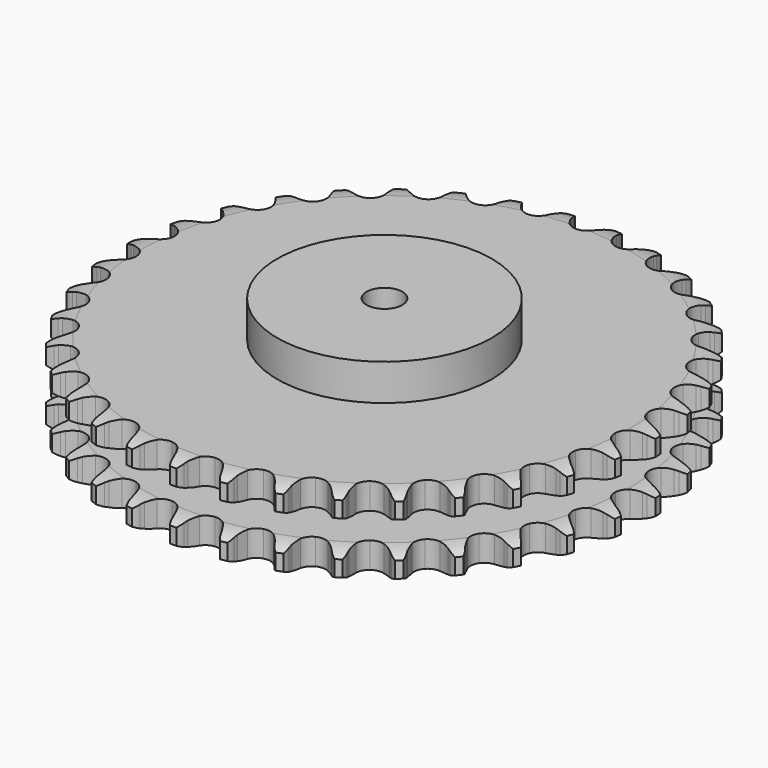
from build123d import *

# Parameters (mm, degrees)
PAD_DEPTH         = 54.6
SKETCH001_R       = 75
PAD001_DEPTH      = 80
SKETCH002_R       = 12.5
POCKET_DEPTH      = 0.001
POCKET_DEPTH_BACK = 80.001


with BuildPart() as part:
    # Sprocket → Pad (new body)
    with BuildSketch(Plane.XY):
        with BuildLine():
            ThreePointArc((-16.809348, 186.76715), (-13.963432, 183.752889), (-12.017606, 180.092455))
            Line((-12.017606, 180.092455), (-11.08828, 177.582083))
            ThreePointArc((-11.08828, 177.582083), (-9.619496, 174.346311), (-7.704213, 171.353111))
            ThreePointArc((-7.704213, 171.353111), (-4.309716, 168.508394), (0, 167.487918))
            ThreePointArc((0, 167.487918), (4.309716, 168.508394), (7.704213, 171.353111))
            ThreePointArc((7.704213, 171.353111), (9.619496, 174.346311), (11.08828, 177.582083))
            Line((11.08828, 177.582083), (12.017606, 180.092455))
            ThreePointArc((12.017606, 180.092455), (13.963432, 183.752889), (16.809348, 186.76715))
            ThreePointArc((16.809348, 186.76715), (19.071312, 183.293171), (20.332271, 179.344122))
            Line((20.332271, 179.344122), (20.798419, 176.708155))
            ThreePointArc((20.798419, 176.708155), (21.66583, 173.262121), (23.015876, 169.975037))
            ThreePointArc((23.015876, 169.975037), (25.847878, 166.569924), (29.906123, 164.796319))
            ThreePointArc((29.906123, 164.796319), (34.328793, 165.030865), (38.176683, 167.223756))
            Line((38.176683, 167.223756), (42.618592, 172.748377))
            ThreePointArc((42.618592, 172.748377), (43.268864, 173.918784), (43.981228, 175.052469))
            ThreePointArc((43.981228, 175.052469), (46.549379, 178.306637), (49.887777, 180.7643))
            ThreePointArc((49.887777, 180.7643), (51.493087, 176.942261), (52.028653, 172.831521))
            Line((52.028653, 172.831521), (52.016639, 170.154681))
            ThreePointArc((52.016639, 170.154681), (52.254797, 166.609144), (52.996217, 163.133824))
            ThreePointArc((52.996217, 163.133824), (55.174701, 159.27776), (58.851038, 156.80803))
            ThreePointArc((58.851038, 156.80803), (63.244514, 156.249109), (67.422122, 157.719692))
            Line((67.422122, 157.719692), (72.779108, 162.362397))
            ThreePointArc((72.779108, 162.362397), (73.627913, 163.397884), (74.531257, 164.386152))
            ThreePointArc((74.531257, 164.386152), (77.639191, 167.129464), (81.362772, 168.951537))
            ThreePointArc((81.362772, 168.951537), (82.259833, 164.90428), (82.05279, 160.763973))
            Line((82.05279, 160.763973), (81.563002, 158.132296))
            ThreePointArc((81.563002, 158.132296), (81.164252, 154.601213), (81.273215, 151.049357))
            ThreePointArc((81.273215, 151.049357), (82.728163, 146.866278), (85.904432, 143.779801))
            ThreePointArc((85.904432, 143.779801), (90.127504, 142.445377), (94.500559, 143.146386))
            Line((94.500559, 143.146386), (100.600443, 146.757955))
            ThreePointArc((100.600443, 146.757955), (101.620501, 147.625241), (102.68579, 148.436329))
            ThreePointArc((102.68579, 148.436329), (106.233615, 150.580612), (110.222701, 151.708532))
            ThreePointArc((110.222701, 151.708532), (110.38268, 147.56614), (109.439684, 143.529338))
            Line((109.439684, 143.529338), (108.487862, 141.027409))
            ThreePointArc((108.487862, 141.027409), (107.465022, 137.624271), (106.938025, 134.110039))
            ThreePointArc((106.938025, 134.110039), (107.622674, 129.734393), (110.196788, 126.130372))
            ThreePointArc((110.196788, 126.130372), (114.113722, 124.063334), (118.541671, 123.972239))
            Line((118.541671, 123.972239), (125.188397, 126.436591))
            ThreePointArc((125.188397, 126.436591), (126.346923, 127.107801), (127.539917, 127.715641))
            ThreePointArc((127.539917, 127.715641), (131.413604, 129.191975), (135.539981, 129.589491))
            ThreePointArc((135.539981, 129.589491), (134.957736, 125.485103), (133.309096, 121.681552))
            Line((133.309096, 121.681552), (131.925834, 119.389784))
            ThreePointArc((131.925834, 119.389784), (130.311777, 116.223971), (129.165759, 112.860314))
            ThreePointArc((129.165759, 112.860314), (129.058104, 108.432737), (130.947328, 104.427009))
            ThreePointArc((130.947328, 104.427009), (134.432232, 101.693794), (138.772755, 100.813521))
            Line((138.772755, 100.813521), (145.752693, 102.051452))
            ThreePointArc((145.752693, 102.051452), (147.01245, 102.505013), (148.294806, 102.890066))
            ThreePointArc((148.294806, 102.890066), (152.369851, 103.651002), (156.500895, 103.305336))
            ThreePointArc((156.500895, 103.305336), (155.19514, 99.370871), (152.893844, 95.922822))
            Line((152.893844, 95.922822), (151.123601, 93.914874))
            ThreePointArc((151.123601, 93.914874), (148.970205, 91.088138), (147.241999, 87.983165))
            ThreePointArc((147.241999, 87.983165), (146.3455, 83.645964), (147.489113, 79.367276))
            ThreePointArc((147.489113, 79.367276), (150.429978, 76.055731), (154.543569, 74.414574))
            Line((154.543569, 74.414574), (161.632378, 74.386295))
            ThreePointArc((161.632378, 74.386295), (162.952876, 74.607628), (164.283379, 74.75752))
            ThreePointArc((164.283379, 74.75752), (168.428806, 74.7786), (172.431741, 73.700863))
            ThreePointArc((172.431741, 73.700863), (170.444445, 70.062778), (167.564459, 67.081052))
            Line((167.564459, 67.081052), (165.464131, 65.421463))
            ThreePointArc((165.464131, 65.421463), (162.840607, 63.024657), (160.58576, 60.278165))
            ThreePointArc((160.58576, 60.278165), (158.929231, 56.170741), (159.290476, 51.756613))
            ThreePointArc((159.290476, 51.756613), (161.592782, 47.973174), (165.347226, 45.623882))
            Line((165.347226, 45.623882), (172.317065, 44.330301))
            ThreePointArc((172.317065, 44.330301), (173.655863, 44.312294), (174.991748, 44.222206))
            ThreePointArc((174.991748, 44.222206), (179.07432, 43.502753), (182.820489, 41.727584))
            ThreePointArc((182.820489, 41.727584), (180.215525, 38.50281), (176.849413, 36.083243))
            Line((176.849413, 36.083243), (174.486507, 34.825351))
            ThreePointArc((174.486507, 34.825351), (171.477179, 32.935512), (168.768163, 30.635776))
            ThreePointArc((168.768163, 30.635776), (166.404846, 26.890144), (165.972113, 22.48245))
            ThreePointArc((165.972113, 22.48245), (167.56186, 18.34872), (170.836487, 15.3668))
            Line((170.836487, 15.3668), (177.463339, 12.849495))
            ThreePointArc((177.463339, 12.849495), (178.777407, 12.592725), (180.075738, 12.265554))
            ThreePointArc((180.075738, 12.265554), (183.964239, 10.828691), (187.333237, 8.413145))
            ThreePointArc((187.333237, 8.413145), (184.194329, 5.705329), (180.450282, 3.925688))
            Line((180.450282, 3.925688), (177.900744, 3.109925))
            ThreePointArc((177.900744, 3.109925), (174.602333, 1.787792), (171.526218, 0.008727))
            ThreePointArc((171.526218, 0.008727), (168.532072, -3.254724), (167.319269, -7.514317))
            ThreePointArc((167.319269, -7.514317), (168.145363, -11.865477), (170.834922, -15.384184))
            Line((170.834922, -15.384184), (176.905796, -19.044305))
            ThreePointArc((176.905796, -19.044305), (178.152899, -19.531584), (179.371946, -20.085323))
            ThreePointArc((179.371946, -20.085323), (182.941395, -22.193414), (185.82494, -25.171698))
            ThreePointArc((185.82494, -25.171698), (182.252976, -27.275525), (178.251331, -28.358041))
            Line((178.251331, -28.358041), (175.597104, -28.705457))
            ThreePointArc((175.597104, -28.705457), (172.115624, -29.417389), (168.77128, -30.618602))
            ThreePointArc((168.77128, -30.618602), (165.242539, -33.294983), (163.288647, -37.269568))
            ThreePointArc((163.288647, -37.269568), (163.324535, -41.698308), (165.342582, -45.640707))
            Line((165.342582, -45.640707), (170.662355, -50.326005))
            ThreePointArc((170.662355, -50.326005), (171.802409, -51.028132), (172.902993, -51.790641))
            ThreePointArc((172.902993, -51.790641), (176.038665, -54.502204), (178.344076, -57.947503))
            ThreePointArc((178.344076, -57.947503), (174.453863, -59.379722), (170.323235, -59.73032))
            Line((170.323235, -59.73032), (167.649629, -59.598223))
            ThreePointArc((167.649629, -59.598223), (164.096978, -59.677071), (160.591893, -60.261824))
            ThreePointArc((160.591893, -60.261824), (156.641975, -62.265113), (154.009793, -65.826944))
            ThreePointArc((154.009793, -65.826944), (153.254322, -70.190921), (154.535996, -74.4303))
            Line((154.535996, -74.4303), (158.933686, -79.990185))
            ThreePointArc((158.933686, -79.990185), (159.930049, -80.884593), (160.876794, -81.831366))
            ThreePointArc((160.876794, -81.831366), (163.477907, -85.059248), (165.131087, -88.860827))
            ThreePointArc((165.131087, -88.860827), (161.047659, -89.575405), (156.92081, -89.182817))
            Line((156.92081, -89.182817), (154.313757, -88.575452))
            ThreePointArc((154.313757, -88.575452), (150.804119, -88.018683), (147.250951, -87.968182))
            ThreePointArc((147.250951, -87.968182), (143.006808, -89.233992), (139.780937, -92.268589))
            ThreePointArc((139.780937, -92.268589), (138.258389, -96.42754), (138.762496, -100.827642))
            Line((138.762496, -100.827642), (142.096757, -107.083416))
            ThreePointArc((142.096757, -107.083416), (142.917406, -108.141358), (143.679883, -109.241963))
            ThreePointArc((143.679883, -109.241963), (145.662834, -112.882418), (146.610649, -116.918091))
            ThreePointArc((146.610649, -116.918091), (142.46525, -116.892062), (138.474821, -115.768905))
            Line((138.474821, -115.768905), (136.018114, -114.705793))
            ThreePointArc((136.018114, -114.705793), (132.664292, -113.531301), (129.177243, -112.84717))
            ThreePointArc((129.177243, -112.84717), (124.775286, -113.334817), (121.059407, -115.744645))
            ThreePointArc((121.059407, -115.744645), (118.818718, -119.564898), (118.529055, -123.984301))
            Line((118.529055, -123.984301), (120.692722, -130.734897))
            ThreePointArc((120.692722, -130.734897), (121.311279, -131.92237), (121.864983, -133.141434))
            ThreePointArc((121.864983, -133.141434), (123.166038, -137.077455), (123.378025, -141.217512))
            ThreePointArc((123.378025, -141.217512), (119.303892, -140.451711), (115.578137, -138.634085))
            Line((115.578137, -138.634085), (113.350737, -137.149396))
            ThreePointArc((113.350737, -137.149396), (110.260526, -135.394931), (106.951671, -134.099156))
            ThreePointArc((106.951671, -134.099156), (102.533383, -133.792967), (98.446928, -135.500572))
            ThreePointArc((98.446928, -135.500572), (95.560115, -138.859342), (94.485993, -143.156002))
            Line((94.485993, -143.156002), (95.409523, -150.184451))
            ThreePointArc((95.409523, -150.184451), (95.806108, -151.463288), (96.133241, -152.761629))
            ThreePointArc((96.133241, -152.761629), (96.710585, -156.866709), (96.179929, -160.978085))
            ThreePointArc((96.179929, -160.978085), (92.308008, -159.497126), (88.966677, -157.043452))
            Line((88.966677, -157.043452), (87.040174, -155.184904))
            ThreePointArc((87.040174, -155.184904), (84.312895, -152.906856), (81.288585, -151.041086))
            ThreePointArc((81.288585, -151.041086), (76.995972, -149.950901), (72.670284, -150.9014))
            ThreePointArc((72.670284, -150.9014), (69.230132, -153.690733), (67.406073, -157.726551))
            Line((67.406073, -157.726551), (67.059783, -164.806953))
            ThreePointArc((67.059783, -164.806953), (67.22165, -166.136052), (67.311699, -167.47194))
            ThreePointArc((67.311699, -167.47194), (67.146773, -171.614138), (65.89053, -175.564691))
            ThreePointArc((65.89053, -175.564691), (62.345268, -173.416173), (59.495755, -170.405312))
            Line((59.495755, -170.405312), (57.932067, -168.232642))
            ThreePointArc((57.932067, -168.232642), (55.655379, -165.504228), (53.012816, -163.128431))
            ThreePointArc((53.012816, -163.128431), (48.983848, -161.28929), (44.557957, -161.452133))
            ThreePointArc((44.557957, -161.452133), (40.675035, -163.582377), (38.159666, -167.22764))
            Line((38.159666, -167.22764), (36.554687, -174.132424))
            ThreePointArc((36.554687, -174.132424), (36.476633, -175.469066), (36.326702, -176.799565))
            ThreePointArc((36.326702, -176.799565), (35.424809, -180.845748), (33.483357, -184.508502))
            ThreePointArc((33.483357, -184.508502), (30.378701, -181.761482), (28.11259, -178.290206))
            Line((28.11259, -178.290206), (26.961977, -175.873244))
            ThreePointArc((26.961977, -175.873244), (25.209053, -172.782159), (23.033173, -169.972694))
            ThreePointArc((23.033173, -169.972694), (19.397343, -167.443709), (15.013501, -166.813661))
            ThreePointArc((15.013501, -166.813661), (10.812609, -168.216349), (7.686776, -171.353894))
            Line((7.686776, -171.353894), (4.874693, -177.861136))
            ThreePointArc((4.874693, -177.861136), (4.559227, -179.162361), (4.174136, -180.444706))
            ThreePointArc((4.174136, -180.444706), (2.564263, -184.264826), (0, -187.522059))
            ThreePointArc((0, -187.522059), (-2.564263, -184.264826), (-4.174136, -180.444706))
            Line((-4.174136, -180.444706), (-4.874693, -177.861136))
            ThreePointArc((-4.874693, -177.861136), (-6.047512, -174.506729), (-7.686776, -171.353894))
            ThreePointArc((-7.686776, -171.353894), (-10.812609, -168.216349), (-15.013501, -166.813661))
            ThreePointArc((-15.013501, -166.813661), (-19.397343, -167.443709), (-23.033173, -169.972694))
            Line((-23.033173, -169.972694), (-26.961977, -175.873244))
            ThreePointArc((-26.961977, -175.873244), (-27.504716, -177.097229), (-28.11259, -178.290206))
            ThreePointArc((-28.11259, -178.290206), (-30.378701, -181.761482), (-33.483357, -184.508502))
            ThreePointArc((-33.483357, -184.508502), (-35.424809, -180.845748), (-36.326702, -176.799565))
            Line((-36.326702, -176.799565), (-36.554687, -174.132424))
            ThreePointArc((-36.554687, -174.132424), (-37.109706, -170.622509), (-38.159666, -167.22764))
            ThreePointArc((-38.159666, -167.22764), (-40.675035, -163.582377), (-44.557957, -161.452133))
            ThreePointArc((-44.557957, -161.452133), (-48.983848, -161.28929), (-53.012816, -163.128431))
            Line((-53.012816, -163.128431), (-57.932067, -168.232642))
            ThreePointArc((-57.932067, -168.232642), (-58.684636, -169.340047), (-59.495755, -170.405312))
            ThreePointArc((-59.495755, -170.405312), (-62.345268, -173.416173), (-65.89053, -175.564691))
            ThreePointArc((-65.89053, -175.564691), (-67.146773, -171.614138), (-67.311699, -167.47194))
            Line((-67.311699, -167.47194), (-67.059783, -164.806953))
            ThreePointArc((-67.059783, -164.806953), (-66.979163, -161.254341), (-67.406073, -157.726551))
            ThreePointArc((-67.406073, -157.726551), (-69.230132, -153.690733), (-72.670284, -150.9014))
            ThreePointArc((-72.670284, -150.9014), (-76.995972, -149.950901), (-81.288585, -151.041086))
            Line((-81.288585, -151.041086), (-87.040174, -155.184904))
            ThreePointArc((-87.040174, -155.184904), (-87.978382, -156.140137), (-88.966677, -157.043452))
            ThreePointArc((-88.966677, -157.043452), (-92.308008, -159.497126), (-96.179929, -160.978085))
            ThreePointArc((-96.179929, -160.978085), (-96.710585, -156.866709), (-96.133241, -152.761629))
            Line((-96.133241, -152.761629), (-95.409523, -150.184451))
            ThreePointArc((-95.409523, -150.184451), (-94.695855, -146.703326), (-94.485993, -143.156002))
            ThreePointArc((-94.485993, -143.156002), (-95.560115, -138.859342), (-98.446928, -135.500572))
            ThreePointArc((-98.446928, -135.500572), (-102.533383, -133.792967), (-106.951671, -134.099156))
            Line((-106.951671, -134.099156), (-113.350737, -137.149396))
            ThreePointArc((-113.350737, -137.149396), (-114.444432, -137.921754), (-115.578137, -138.634085))
            ThreePointArc((-115.578137, -138.634085), (-119.303892, -140.451711), (-123.378025, -141.217512))
            ThreePointArc((-123.378025, -141.217512), (-123.166038, -137.077455), (-121.864983, -133.141434))
            Line((-121.864983, -133.141434), (-120.692722, -130.734897))
            ThreePointArc((-120.692722, -130.734897), (-119.368944, -127.437146), (-118.529055, -123.984301))
            ThreePointArc((-118.529055, -123.984301), (-118.818718, -119.564898), (-121.059407, -115.744645))
            ThreePointArc((-121.059407, -115.744645), (-124.775286, -113.334817), (-129.177243, -112.84717))
            Line((-129.177243, -112.84717), (-136.018114, -114.705793))
            ThreePointArc((-136.018114, -114.705793), (-137.232142, -115.270452), (-138.474821, -115.768905))
            ThreePointArc((-138.474821, -115.768905), (-142.46525, -116.892062), (-146.610649, -116.918091))
            ThreePointArc((-146.610649, -116.918091), (-145.662834, -112.882418), (-143.679883, -109.241963))
            Line((-143.679883, -109.241963), (-142.096757, -107.083416))
            ThreePointArc((-142.096757, -107.083416), (-140.205417, -104.07503), (-138.762496, -100.827642))
            ThreePointArc((-138.762496, -100.827642), (-138.258389, -96.42754), (-139.780937, -92.268589))
            ThreePointArc((-139.780937, -92.268589), (-143.006808, -89.233992), (-147.250951, -87.968182))
            Line((-147.250951, -87.968182), (-154.313757, -88.575452))
            ThreePointArc((-154.313757, -88.575452), (-155.609099, -88.914263), (-156.92081, -89.182817))
            ThreePointArc((-156.92081, -89.182817), (-161.047659, -89.575405), (-165.131087, -88.860827))
            ThreePointArc((-165.131087, -88.860827), (-163.477907, -85.059248), (-160.876794, -81.831366))
            Line((-160.876794, -81.831366), (-158.933686, -79.990185))
            ThreePointArc((-158.933686, -79.990185), (-156.535572, -77.367858), (-154.535996, -74.4303))
            ThreePointArc((-154.535996, -74.4303), (-153.254322, -70.190921), (-154.009793, -65.826944))
            ThreePointArc((-154.009793, -65.826944), (-156.641975, -62.265113), (-160.591893, -60.261824))
            Line((-160.591893, -60.261824), (-167.649629, -59.598223))
            ThreePointArc((-167.649629, -59.598223), (-168.984652, -59.700297), (-170.323235, -59.73032))
            ThreePointArc((-170.323235, -59.73032), (-174.453863, -59.379722), (-178.344076, -57.947503))
            ThreePointArc((-178.344076, -57.947503), (-176.038665, -54.502204), (-172.902993, -51.790641))
            Line((-172.902993, -51.790641), (-170.662355, -50.326005))
            ThreePointArc((-170.662355, -50.326005), (-167.834546, -48.174019), (-165.342582, -45.640707))
            ThreePointArc((-165.342582, -45.640707), (-163.324535, -41.698308), (-163.288647, -37.269568))
            ThreePointArc((-163.288647, -37.269568), (-165.242539, -33.294983), (-168.77128, -30.618602))
            Line((-168.77128, -30.618602), (-175.597104, -28.705457))
            ThreePointArc((-175.597104, -28.705457), (-176.928899, -28.567514), (-178.251331, -28.358041))
            ThreePointArc((-178.251331, -28.358041), (-182.252976, -27.275525), (-185.82494, -25.171698))
            ThreePointArc((-185.82494, -25.171698), (-182.941395, -22.193414), (-179.371946, -20.085323))
            Line((-179.371946, -20.085323), (-176.905796, -19.044305))
            ThreePointArc((-176.905796, -19.044305), (-173.739179, -17.431827), (-170.834922, -15.384184))
            ThreePointArc((-170.834922, -15.384184), (-168.145363, -11.865477), (-167.319269, -7.514317))
            ThreePointArc((-167.319269, -7.514317), (-168.532072, -3.254724), (-171.526218, 0.008727))
            Line((-171.526218, 0.008727), (-177.900744, 3.109925))
            ThreePointArc((-177.900744, 3.109925), (-179.186505, 3.483453), (-180.450282, 3.925688))
            ThreePointArc((-180.450282, 3.925688), (-184.194329, 5.705329), (-187.333237, 8.413145))
            ThreePointArc((-187.333237, 8.413145), (-183.964239, 10.828691), (-180.075738, 12.265554))
            Line((-180.075738, 12.265554), (-177.463339, 12.849495))
            ThreePointArc((-177.463339, 12.849495), (-174.059692, 13.870638), (-170.836487, 15.3668))
            ThreePointArc((-170.836487, 15.3668), (-167.56186, 18.34872), (-165.972113, 22.48245))
            ThreePointArc((-165.972113, 22.48245), (-166.404846, 26.890144), (-168.768163, 30.635776))
            Line((-168.768163, 30.635776), (-174.486507, 34.825351))
            ThreePointArc((-174.486507, 34.825351), (-175.68491, 35.422458), (-176.849413, 36.083243))
            ThreePointArc((-176.849413, 36.083243), (-180.215525, 38.50281), (-182.820489, 41.727584))
            ThreePointArc((-182.820489, 41.727584), (-179.07432, 43.502753), (-174.991748, 44.222206))
            Line((-174.991748, 44.222206), (-172.317065, 44.330301))
            ThreePointArc((-172.317065, 44.330301), (-168.785783, 44.727289), (-165.347226, 45.623882))
            ThreePointArc((-165.347226, 45.623882), (-161.592782, 47.973174), (-159.290476, 51.756613))
            ThreePointArc((-159.290476, 51.756613), (-158.929231, 56.170741), (-160.58576, 60.278165))
            Line((-160.58576, 60.278165), (-165.464131, 65.421463))
            ThreePointArc((-165.464131, 65.421463), (-166.536657, 66.222957), (-167.564459, 67.081052))
            ThreePointArc((-167.564459, 67.081052), (-170.444445, 70.062778), (-172.431741, 73.700863))
            ThreePointArc((-172.431741, 73.700863), (-168.428806, 74.7786), (-164.283379, 74.75752))
            Line((-164.283379, 74.75752), (-161.632378, 74.386295))
            ThreePointArc((-161.632378, 74.386295), (-158.08696, 74.146368), (-154.543569, 74.414574))
            ThreePointArc((-154.543569, 74.414574), (-150.429978, 76.055731), (-147.489113, 79.367276))
            ThreePointArc((-147.489113, 79.367276), (-146.3455, 83.645964), (-147.241999, 87.983165))
            Line((-147.241999, 87.983165), (-151.123601, 93.914874))
            ThreePointArc((-151.123601, 93.914874), (-152.035779, 94.894995), (-152.893844, 95.922822))
            ThreePointArc((-152.893844, 95.922822), (-155.19514, 99.370871), (-156.500895, 103.305336))
            ThreePointArc((-156.500895, 103.305336), (-152.369851, 103.651002), (-148.294806, 102.890066))
            Line((-148.294806, 102.890066), (-145.752693, 102.051452))
            ThreePointArc((-145.752693, 102.051452), (-142.307092, 101.182322), (-138.772755, 100.813521))
            ThreePointArc((-138.772755, 100.813521), (-134.432232, 101.693794), (-130.947328, 104.427009))
            ThreePointArc((-130.947328, 104.427009), (-129.058104, 108.432737), (-129.165759, 112.860314))
            Line((-129.165759, 112.860314), (-131.925834, 119.389784))
            ThreePointArc((-131.925834, 119.389784), (-132.648346, 120.51703), (-133.309096, 121.681552))
            ThreePointArc((-133.309096, 121.681552), (-134.957736, 125.485103), (-135.539981, 129.589491))
            ThreePointArc((-135.539981, 129.589491), (-131.413604, 129.191975), (-127.539917, 127.715641))
            Line((-127.539917, 127.715641), (-125.188397, 126.436591))
            ThreePointArc((-125.188397, 126.436591), (-121.953357, 124.966193), (-118.541671, 123.972239))
            ThreePointArc((-118.541671, 123.972239), (-114.113722, 124.063334), (-110.196788, 126.130372))
            ThreePointArc((-110.196788, 126.130372), (-107.622674, 129.734393), (-106.938025, 134.110039))
            Line((-106.938025, 134.110039), (-108.487862, 141.027409))
            ThreePointArc((-108.487862, 141.027409), (-108.997486, 142.265548), (-109.439684, 143.529338))
            ThreePointArc((-109.439684, 143.529338), (-110.38268, 147.56614), (-110.222701, 151.708532))
            ThreePointArc((-110.222701, 151.708532), (-106.233615, 150.580612), (-102.68579, 148.436329))
            Line((-102.68579, 148.436329), (-100.600443, 146.757955))
            ThreePointArc((-100.600443, 146.757955), (-97.679941, 144.733548), (-94.500559, 143.146386))
            ThreePointArc((-94.500559, 143.146386), (-90.127504, 142.445377), (-85.904432, 143.779801))
            ThreePointArc((-85.904432, 143.779801), (-82.728163, 146.866278), (-81.273215, 151.049357))
            Line((-81.273215, 151.049357), (-81.563002, 158.132296))
            ThreePointArc((-81.563002, 158.132296), (-81.843357, 159.441535), (-82.05279, 160.763973))
            ThreePointArc((-82.05279, 160.763973), (-82.259833, 164.90428), (-81.362772, 168.951537))
            ThreePointArc((-81.362772, 168.951537), (-77.639191, 167.129464), (-74.531257, 164.386152))
            Line((-74.531257, 164.386152), (-72.779108, 162.362397))
            ThreePointArc((-72.779108, 162.362397), (-70.267012, 159.849047), (-67.422122, 157.719692))
            ThreePointArc((-67.422122, 157.719692), (-63.244514, 156.249109), (-58.851038, 156.80803))
            ThreePointArc((-58.851038, 156.80803), (-55.174701, 159.27776), (-52.996217, 163.133824))
            Line((-52.996217, 163.133824), (-52.016639, 170.154681))
            ThreePointArc((-52.016639, 170.154681), (-52.058715, 171.492939), (-52.028653, 172.831521))
            ThreePointArc((-52.028653, 172.831521), (-51.493087, 176.942261), (-49.887777, 180.7643))
            ThreePointArc((-49.887777, 180.7643), (-46.549379, 178.306637), (-43.981228, 175.052469))
            Line((-43.981228, 175.052469), (-42.618592, 172.748377))
            ThreePointArc((-42.618592, 172.748377), (-40.595642, 169.826867), (-38.176683, 167.223756))
            ThreePointArc((-38.176683, 167.223756), (-34.328793, 165.030865), (-29.906123, 164.796319))
            ThreePointArc((-29.906123, 164.796319), (-25.847878, 166.569924), (-23.015876, 169.975037))
            Line((-23.015876, 169.975037), (-20.798419, 176.708155))
            ThreePointArc((-20.798419, 176.708155), (-20.600863, 178.03242), (-20.332271, 179.344122))
            ThreePointArc((-20.332271, 179.344122), (-19.071312, 183.293171), (-16.809348, 186.76715))
        make_face()
    extrude(amount=PAD_DEPTH)

    # Sketch → Groove (revolve, cut)
    with BuildSketch(Plane.XZ):
        with BuildLine():
            ThreePointArc((170.148368, 0), (177.631683, 0.887302), (184.7, 3.5))
            Line((184.7, 3.5), (184.7, 14.7))
            ThreePointArc((184.7, 14.7), (177.631683, 17.312698), (170.148368, 18.2))
            Line((75, 18.2), (170.148368, 18.2))
            Line((75, 36.4), (75, 18.2))
            Line((170.148368, 36.4), (75, 36.4))
            ThreePointArc((170.148368, 36.4), (177.631683, 37.287302), (184.7, 39.9))
            Line((184.7, 39.9), (184.7, 51.1))
            ThreePointArc((184.7, 51.1), (177.631683, 53.712698), (170.148368, 54.6))
            Line((170.148368, 54.6), (194.7, 54.6))
            Line((194.7, 54.6), (194.7, 0))
            Line((170.148368, 0), (194.7, 0))
        make_face()
    revolve(axis=Axis((0, 0, 0), (0, 0, 1)), mode=Mode.SUBTRACT)

    # Sketch001 → Pad001 (join)
    with BuildSketch(Plane.XY):
        Circle(SKETCH001_R)
    extrude(amount=PAD001_DEPTH)

    # Sketch002 → Pocket (cut, two sides)
    with BuildSketch(Plane.XY) as pocket_sk:
        Circle(SKETCH002_R)
    extrude(amount=-POCKET_DEPTH, mode=Mode.SUBTRACT)
    extrude(pocket_sk.sketch, amount=POCKET_DEPTH_BACK, mode=Mode.SUBTRACT)


solid = part.part
